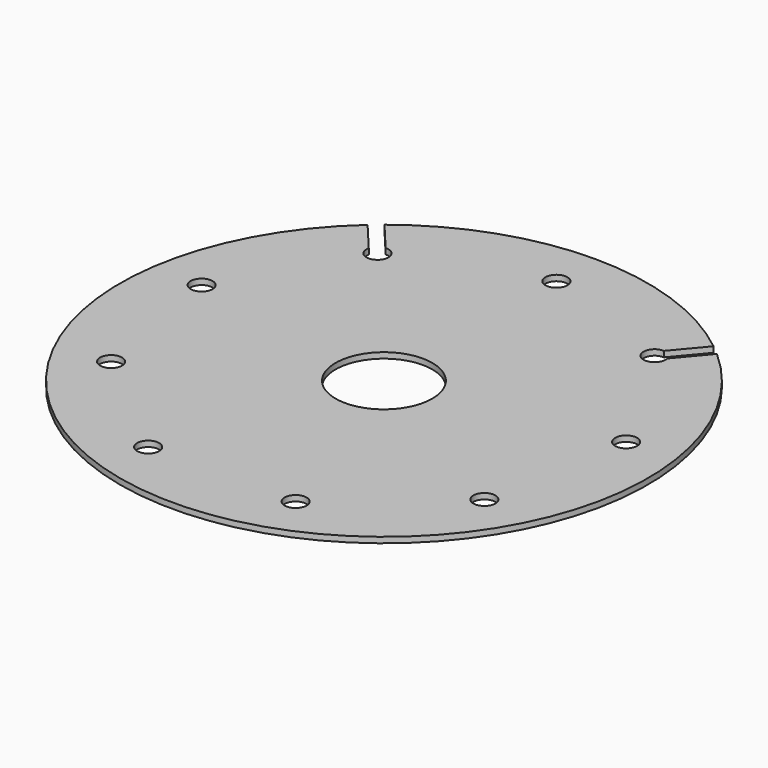
from build123d import *

# Parameters (mm, degrees)
SKETCH_R   = 11
SKETCH_R_2 = 2.5
PAD_DEPTH  = 1.3


with BuildPart() as part:
    # Sketch → Pad (new body)
    with BuildSketch(Plane.XY):
        with BuildLine():
            ThreePointArc((37.406136, 46.912482), (0, 60), (-37.406136, 46.912482))
            Line((-37.406136, 46.912482), (-31.633101, 40.032448))
            ThreePointArc((-33.931235, 38.104085), (-29.889624, 35.621067), (-31.633101, 40.032448))
            Line((-33.931235, 38.104085), (-39.704269, 44.98412))
            ThreePointArc((-39.704269, 44.98412), (0, -60), (39.704269, 44.98412))
            Line((33.931235, 38.104085), (39.704269, 44.98412))
            ThreePointArc((31.633101, 40.032448), (29.889624, 35.621067), (33.931235, 38.104085))
            Line((31.633101, 40.032448), (37.406136, 46.912482))
        make_face()
        Circle(SKETCH_R, mode=Mode.SUBTRACT)
        with Locations((0, 49)):
            Circle(SKETCH_R_2, mode=Mode.SUBTRACT)
        with Locations((48.25558, 8.508761)):
            Circle(SKETCH_R_2, mode=Mode.SUBTRACT)
        with Locations((42.435245, -24.5)):
            Circle(SKETCH_R_2, mode=Mode.SUBTRACT)
        with Locations((16.758987, -46.044938)):
            Circle(SKETCH_R_2, mode=Mode.SUBTRACT)
        with Locations((-16.758987, -46.044938)):
            Circle(SKETCH_R_2, mode=Mode.SUBTRACT)
        with Locations((-42.435245, -24.5)):
            Circle(SKETCH_R_2, mode=Mode.SUBTRACT)
        with Locations((-48.25558, 8.508761)):
            Circle(SKETCH_R_2, mode=Mode.SUBTRACT)
    extrude(amount=PAD_DEPTH)


solid = part.part
